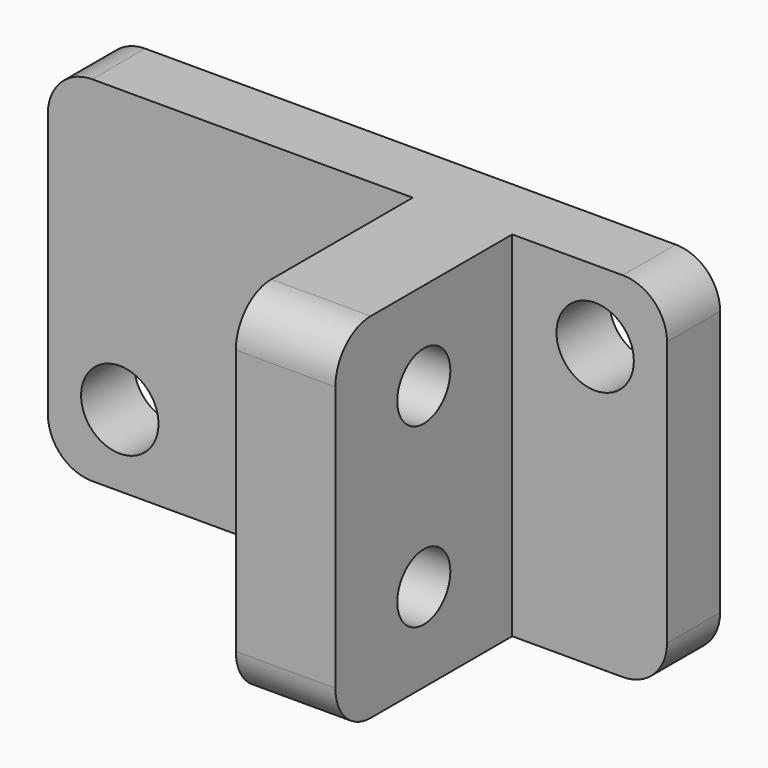
from build123d import *

# Parameters (mm, degrees)
F0_R     = 1.75
F1_DEPTH = 1.5
F4_DEPTH = 3
F5_DEPTH = 1.5
F6_R     = 1.5
F7_DEPTH = 21.001


with BuildPart() as f1:
    # F0 (on Front) → F1 (new body, symmetric)
    with BuildSketch(Plane.XZ):
        with BuildLine():
            ThreePointArc((14, 6), (13.4142135624, 7.4142135624), (12, 8))
            Line((12, 8), (-12, 8))
            ThreePointArc((-12, 8), (-13.4142135624, 7.4142135624), (-14, 6))
            Line((-14, 6), (-14, -6))
            ThreePointArc((-14, -6), (-13.4142135624, -7.4142135624), (-12, -8))
            Line((-12, -8), (12, -8))
            ThreePointArc((12, -8), (13.4142135624, -7.4142135624), (14, -6))
            Line((14, -6), (14, 6))
        make_face()
        with Locations((-10.75, -4.75)):
            Circle(F0_R, mode=Mode.SUBTRACT)
        with Locations((10.75, 4.75)):
            Circle(F0_R, mode=Mode.SUBTRACT)
    extrude(amount=F1_DEPTH, both=True)

    # F3 (on offset) → F4 (join)
    with BuildSketch(Plane.YZ.offset(4)):
        with BuildLine():
            Line((-9.5, -8), (-1.5, -8))
            Line((-1.5, -8), (-1.5, 8))
            Line((-1.5, 8), (-9.5, 8))
            ThreePointArc((-9.5, 8), (-10.9142135624, 7.4142135624), (-11.5, 6))
            Line((-11.5, 6), (-11.5, -6))
            ThreePointArc((-11.5, -6), (-10.9142135624, -7.4142135624), (-9.5, -8))
        make_face()
    extrude(amount=F4_DEPTH)

    # F3 (on offset) → F5 (join, symmetric)
    with BuildSketch(Plane.YZ.offset(4)):
        with BuildLine():
            Line((-9.5, -8), (-1.5, -8))
            Line((-1.5, -8), (-1.5, 8))
            Line((-1.5, 8), (-9.5, 8))
            ThreePointArc((-9.5, 8), (-10.9142135624, 7.4142135624), (-11.5, 6))
            Line((-11.5, 6), (-11.5, -6))
            ThreePointArc((-11.5, -6), (-10.9142135624, -7.4142135624), (-9.5, -8))
        make_face()
    extrude(amount=F5_DEPTH, both=True)

    # F6 (on face) → F7 (cut, through all)
    with BuildSketch(Plane.YZ.offset(7)):
        with Locations((-6.5, 4)):
            Circle(F6_R)
        with Locations((-6.5, -4)):
            Circle(F6_R)
    extrude(amount=-F7_DEPTH, mode=Mode.SUBTRACT)


solid = f1.part
